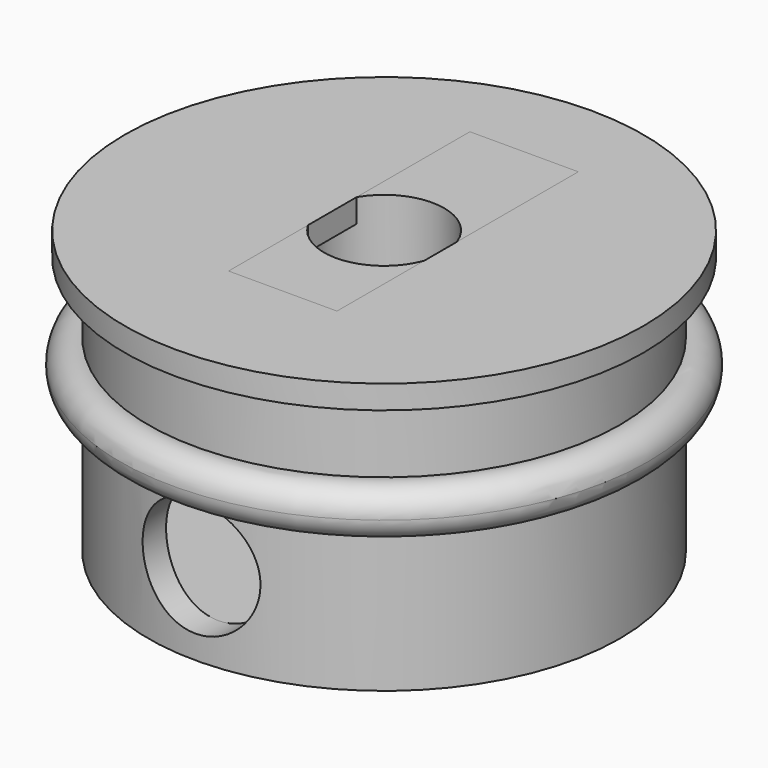
from build123d import *

# Parameters (mm, degrees)
TORUS_R                = 1
CYLINDER002_R          = 2.5
CYLINDER002_DEPTH      = 10
CYLINDER002_ROLL_ANGLE = 90
CYLINDER_R             = 8.8
CYLINDER_DEPTH         = 10
CYLINDER001_R          = 10
CYLINDER001_DEPTH      = 11
CYLINDER004_R          = 2.55
CYLINDER004_DEPTH      = 12
CYLINDER005_R          = 11
CYLINDER005_DEPTH      = 1
CYLINDER003_R          = 8.5
CYLINDER003_DEPTH      = 6
BOX001_W               = 4.6
BOX001_H               = 12.8
BOX001_DEPTH           = 3
CYLINDER008_R          = 11
CYLINDER008_DEPTH      = 1
BOX_W                  = 18
BOX_H                  = 7
BOX_DEPTH              = 7
CYLINDER007_R          = 7.65
CYLINDER007_DEPTH      = 5
CYLINDER006_R          = 8.5
CYLINDER006_DEPTH      = 5


with BuildPart() as torus:
    # Torus → Torus (revolve)
    with BuildSketch(Plane(origin=(0, 0, 6), x_dir=(1, 0, 0), z_dir=(0, -1, 0))):
        with Locations((10.2, 0)):
            Circle(TORUS_R)
    revolve(axis=Axis((0, 0, 6), (0, 0, 1)))


with BuildPart() as cylinder:
    # Cylinder002 → Cylinder002 (new body)
    with BuildSketch(Plane.XY):
        Circle(CYLINDER002_R)
    extrude(amount=CYLINDER002_DEPTH)


with BuildPart() as cylinder_1:
    # Cylinder002 roll: moved
    add(cylinder.part.rotate(Axis((0, 0, 0), (1, 0, 0)), CYLINDER002_ROLL_ANGLE))


with BuildPart() as cylinder_2:
    # Cylinder002 placement: moved
    add(cylinder_1.part.moved(Location((0, 0, 2.5))))


with BuildPart() as fusion:
    # Cylinder → Cylinder (new body)
    with BuildSketch(Plane.XY):
        Circle(CYLINDER_R)
    extrude(amount=CYLINDER_DEPTH)

    # Fusion: union Cylinder
    add(cylinder_2.part)


with BuildPart() as ir_box:
    # Cylinder001 → Cylinder001 (new body)
    with BuildSketch(Plane.XY.offset(-1)):
        Circle(CYLINDER001_R)
    extrude(amount=CYLINDER001_DEPTH)

    # Cut: cut Fusion
    add(fusion.part, mode=Mode.SUBTRACT)

    # Fusion001: union Torus
    add(torus.part)


with BuildPart() as obj1:
    # Cylinder004 → Cylinder004 (new body)
    with BuildSketch(Plane.XY.offset(4)):
        Circle(CYLINDER004_R)
    extrude(amount=CYLINDER004_DEPTH)


with BuildPart() as obj2:
    # Cylinder005 → Cylinder005 (new body)
    with BuildSketch(Plane.XY.offset(10)):
        Circle(CYLINDER005_R)
    extrude(amount=CYLINDER005_DEPTH)


with BuildPart() as ir_sender:
    # Cylinder003 → Cylinder003 (new body)
    with BuildSketch(Plane.XY.offset(4)):
        Circle(CYLINDER003_R)
    extrude(amount=CYLINDER003_DEPTH)

    # Fusion002: union obj2
    add(obj2.part)

    # Cut001: cut obj1
    add(obj1.part, mode=Mode.SUBTRACT)


with BuildPart() as cube001:
    # Box001 → Box001 (new body)
    with BuildSketch(Plane(origin=(-2.2, -5.5, 10), x_dir=(1, 0, 0), z_dir=(0, 0, 1))):
        with Locations((2.3, 6.4)):
            Rectangle(BOX001_W, BOX001_H)
    extrude(amount=BOX001_DEPTH)


with BuildPart() as obj3:
    # Cylinder008 → Cylinder008 (new body)
    with BuildSketch(Plane.XY.offset(10)):
        Circle(CYLINDER008_R)
    extrude(amount=CYLINDER008_DEPTH)


with BuildPart() as cube:
    # Box → Box (new body)
    with BuildSketch(Plane(origin=(-9, -11.5, 4), x_dir=(1, 0, 0), z_dir=(0, 0, 1))):
        with Locations((9, 3.5)):
            Rectangle(BOX_W, BOX_H)
    extrude(amount=BOX_DEPTH)


with BuildPart() as cylinder002:
    # Cylinder007 → Cylinder007 (new body)
    with BuildSketch(Plane.XY.offset(5)):
        Circle(CYLINDER007_R)
    extrude(amount=CYLINDER007_DEPTH)


with BuildPart() as ir_receiver:
    # Cylinder006 → Cylinder006 (new body)
    with BuildSketch(Plane.XY.offset(5)):
        Circle(CYLINDER006_R)
    extrude(amount=CYLINDER006_DEPTH)

    # Cut002: cut Cylinder002
    add(cylinder002.part, mode=Mode.SUBTRACT)

    # Cut003: cut Cube
    add(cube.part, mode=Mode.SUBTRACT)

    # Fusion003: union obj3
    add(obj3.part)

    # Cut004: cut Cube001
    add(cube001.part, mode=Mode.SUBTRACT)


solid = Compound([ir_box.part, ir_sender.part, ir_receiver.part])
